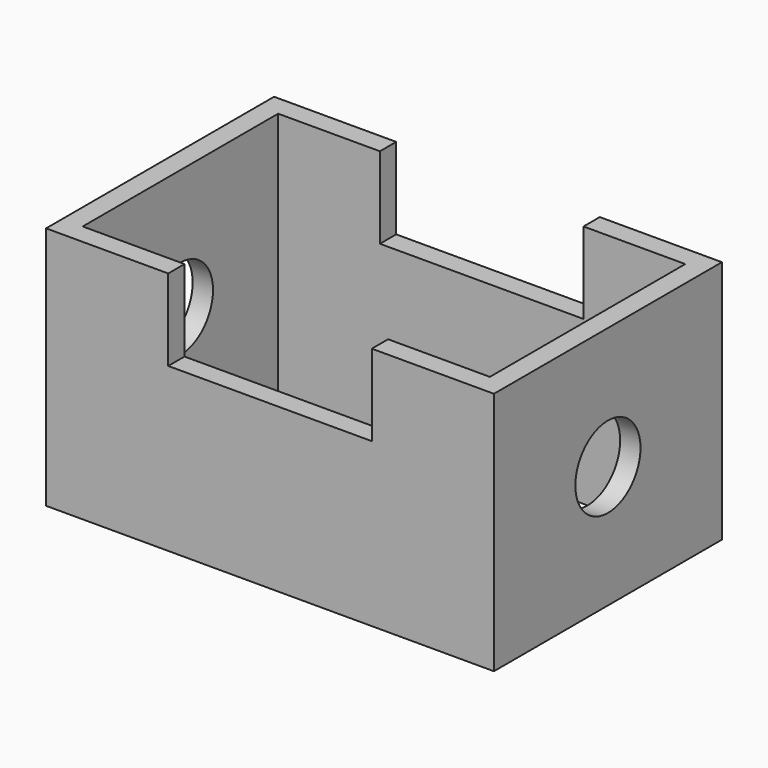
from build123d import *

# Parameters (mm, degrees)
F0_W     = 139.7
F0_H     = 88.9
F0_W_2   = 127
F0_H_2   = 76.2
F1_DEPTH = 76.2
F2_W     = 63.5
F2_H     = 25.4
F3_DEPTH = 166.37
F4_R     = 12.7
F5_DEPTH = 213.36


with BuildPart() as f1:
    # F0 (on Top) → F1 (new body)
    with BuildSketch(Plane.XY):
        Rectangle(F0_W, F0_H)
        Rectangle(F0_W_2, F0_H_2, mode=Mode.SUBTRACT)
    extrude(amount=F1_DEPTH)

    # F2 (on face) → F3 (cut)
    with BuildSketch(Plane.XZ.offset(44.45)):
        with Locations((0, 63.5)):
            Rectangle(F2_W, F2_H)
    extrude(amount=-F3_DEPTH, mode=Mode.SUBTRACT)

    # F4 (on face) → F5 (cut)
    with BuildSketch(Plane.YZ.offset(69.85)):
        with Locations((0, 38.1)):
            Circle(F4_R)
    extrude(amount=-F5_DEPTH, mode=Mode.SUBTRACT)


solid = f1.part
